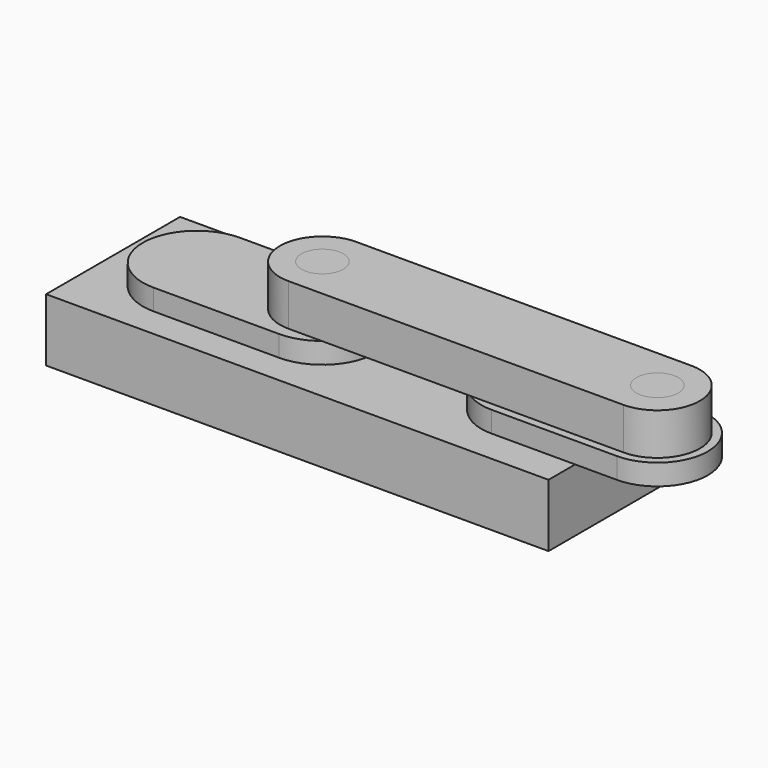
from build123d import *

# Parameters (mm, degrees)
F0_W           = 120
F0_H           = 15
F1_DEPTH       = 20
F2_R           = 5
F3_DEPTH       = 50
F4_R           = 5
F5_DEPTH       = 5
F7_START       = 15
F6_R           = 5
F7_DEPTH       = 5
F9_START       = 17.22615
F8_R           = 5
F9_DEPTH       = 12.77385
F10_R          = 5
F11_DEPTH      = 20
F11_DEPTH_BACK = 0.1092
F13_START      = 20
F12_R          = 5
F13_DEPTH      = 10


with BuildPart() as f1:
    # F0 (on Front) → F1 (new body, symmetric)
    with BuildSketch(Plane.XZ):
        with Locations((60, 7.5)):
            Rectangle(F0_W, F0_H)
    extrude(amount=F1_DEPTH, both=True)

    # F2 (on Top) → F3 (cut, symmetric)
    with BuildSketch(Plane.XY):
        with Locations((20, 0)):
            Circle(F2_R)
        with Locations((100, 0)):
            Circle(F2_R)
    extrude(amount=F3_DEPTH, both=True, mode=Mode.SUBTRACT)


with BuildPart() as f5:
    # F4 (on face) → F5 (new body)
    with BuildSketch(Plane.XY.offset(15)):
        with BuildLine():
            Line((50, 12.8972270639), (20, 12.8972270639))
            ThreePointArc((20, 12.8972270639), (7.1027729361, 0), (20, -12.8972270639))
            Line((20, -12.8972270639), (50, -12.8972270639))
            ThreePointArc((50, -12.8972270639), (62.8972270639, 0), (50, 12.8972270639))
        make_face()
        with Locations((20, 0)):
            Circle(F4_R, mode=Mode.SUBTRACT)
        with Locations((50, 0)):
            Circle(F4_R, mode=Mode.SUBTRACT)
    extrude(amount=F5_DEPTH)

    # F8 (on Top) → F9 (join)
    with BuildSketch(Plane.XY.offset(F9_START)):
        with Locations((50, 0)):
            Circle(F8_R)
    extrude(amount=F9_DEPTH)

    # F10 (on Top) → F11 (join, two sides)
    with BuildSketch(Plane.XY) as f11_sk:
        with Locations((20, 0)):
            Circle(F10_R)
        with Locations((100, 0)):
            Circle(F10_R)
    extrude(amount=F11_DEPTH)
    extrude(f11_sk.sketch, amount=-F11_DEPTH_BACK)


with BuildPart() as f7:
    # F6 (on Top) → F7 (new body)
    with BuildSketch(Plane.XY.offset(F7_START)):
        with BuildLine():
            Line((130, 12.0517981091), (100, 12.0517981091))
            ThreePointArc((100, 12.0517981091), (87.9482018909, 0), (100, -12.0517981091))
            Line((100, -12.0517981091), (130, -12.0517981091))
            ThreePointArc((130, -12.0517981091), (142.0517981091, 0), (130, 12.0517981091))
        make_face()
        with Locations((100, 0)):
            Circle(F6_R, mode=Mode.SUBTRACT)
        with Locations((130, 0)):
            Circle(F6_R, mode=Mode.SUBTRACT)
    extrude(amount=F7_DEPTH)


with BuildPart() as f9:
    # F8 (on Top) → F9, piece 2 (new body)
    with BuildSketch(Plane.XY.offset(F9_START)):
        with Locations((130, 0)):
            Circle(F8_R)
    extrude(amount=F9_DEPTH)


with BuildPart() as f13:
    # F12 (on Top) → F13 (new body)
    with BuildSketch(Plane.XY.offset(F13_START)):
        with BuildLine():
            Line((130, 10.1391175894), (50, 10.1391175894))
            ThreePointArc((50, 10.1391175894), (39.8608824106, 0), (50, -10.1391175894))
            Line((50, -10.1391175894), (130, -10.1391175894))
            ThreePointArc((130, -10.1391175894), (140.1391175894, 0), (130, 10.1391175894))
        make_face()
        with Locations((50, 0)):
            Circle(F12_R, mode=Mode.SUBTRACT)
        with Locations((130, 0)):
            Circle(F12_R, mode=Mode.SUBTRACT)
    extrude(amount=F13_DEPTH)


solid = Compound([f1.part, f5.part, f7.part, f9.part, f13.part])
